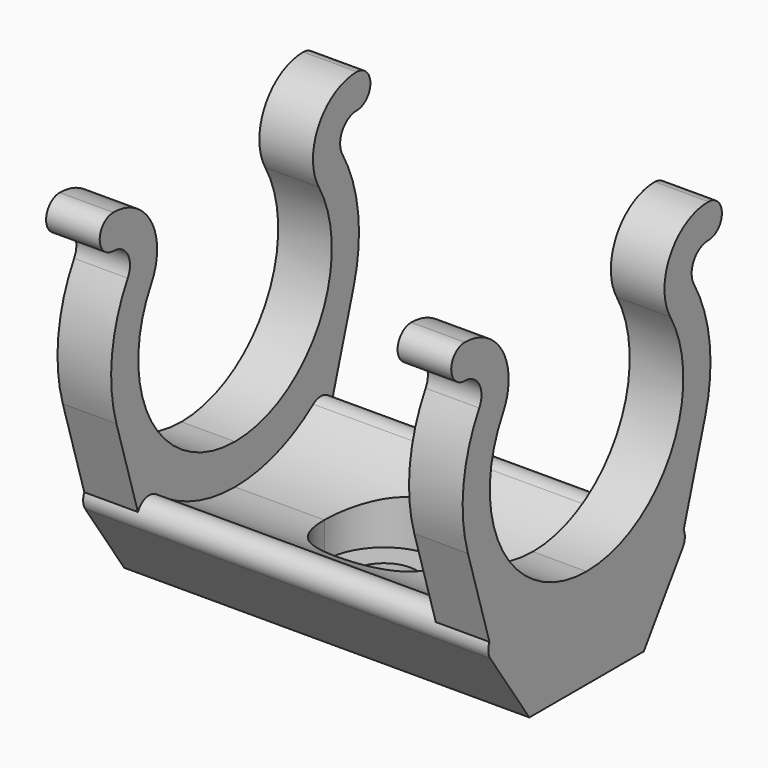
from build123d import *

# Parameters (mm, degrees)
PAD005_DEPTH                  = 17
PAD006_DEPTH                  = 4.5
SKETCH015_R                   = 2.75
POCKET005_DEPTH               = 93.84909
SKETCH016_R                   = 5
POCKET006_DEPTH               = 16.5
PAD005_MIRRORED002_2_DEPTH    = 17
PAD006_MIRRORED002_2_DEPTH    = 4.5
SKETCH015_MIRRORED002_2_R     = 2.75
POCKET005_MIRRORED002_2_DEPTH = 93.84909
SKETCH016_MIRRORED002_2_R     = 5
POCKET006_MIRRORED002_2_DEPTH = 16.5
SKETCH023_W                   = 1
SKETCH023_H                   = 10
POCKET011_DEPTH               = 0.2


with BuildPart() as part:
    # Sketch013 → Pad005 (new body)
    with BuildSketch(Plane.YZ):
        with BuildLine():
            ThreePointArc((0, -13.5), (4.330629, -12.786542), (8.203522, -10.721578))
            ThreePointArc((10.083563, -12.5), (9.900722, -10.810344), (8.203522, -10.721578))
            Line((6, -18.5), (10.083563, -12.5))
            Line((0, -18.5), (6, -18.5))
            Line((0, -13.5), (0, -18.5))
        make_face()
    pad005 = extrude(amount=PAD005_DEPTH)

    # Sketch014 → Pad006 (join)
    with BuildSketch(Plane.YZ.offset(17)):
        with BuildLine():
            ThreePointArc((0, -10.15), (8.790158, -5.075), (8.790158, 5.075))
            ThreePointArc((12.773875, 11.975), (8.790158, 9.675), (8.790158, 5.075))
            ThreePointArc((12.773875, 9.125), (14.198875, 10.55), (12.773875, 11.975))
            ThreePointArc((12.773875, 9.125), (11.25833, 8.25), (11.25833, 6.5))
            ThreePointArc((12.442941, -3.764734), (12.914285, 1.490384), (11.25833, 6.5))
            Line((12.442941, -3.764734), (9.8, -12.5))
            Line((9.8, -12.5), (0, -14.15))
            Line((0, -10.15), (0, -14.15))
        make_face()
    pad006 = extrude(amount=-PAD006_DEPTH)

    # Sketch015 → Pocket005 (cut, through all)
    with BuildSketch(Plane.XY):
        Circle(SKETCH015_R)
    pocket005 = extrude(amount=-POCKET005_DEPTH, mode=Mode.SUBTRACT)

    # Sketch016 → Pocket006 (cut)
    with BuildSketch(Plane.XY):
        Circle(SKETCH016_R)
    pocket006 = extrude(amount=-POCKET006_DEPTH, mode=Mode.SUBTRACT)

    # Sketch013 Mirrored002 2 → Pad005 Mirrored002 2 (add)
    with BuildSketch(Plane(origin=(0, 0, 0), x_dir=(0, -1, 0), z_dir=(-1, 0, 0))):
        with BuildLine():
            ThreePointArc((0, -13.5), (4.330629, -12.786542), (8.203522, -10.721578))
            ThreePointArc((10.083563, -12.5), (9.900722, -10.810344), (8.203522, -10.721578))
            Line((6, -18.5), (10.083563, -12.5))
            Line((0, -18.5), (6, -18.5))
            Line((0, -13.5), (0, -18.5))
        make_face()
    pad005_mirrored002_2 = extrude(amount=-PAD005_MIRRORED002_2_DEPTH)

    # Sketch014 Mirrored002 2 → Pad006 Mirrored002 2 (add)
    with BuildSketch(Plane(origin=(17, 0, 0), x_dir=(0, -1, 0), z_dir=(-1, 0, 0))):
        with BuildLine():
            ThreePointArc((0, -10.15), (8.790158, -5.075), (8.790158, 5.075))
            ThreePointArc((12.773875, 11.975), (8.790158, 9.675), (8.790158, 5.075))
            ThreePointArc((12.773875, 9.125), (14.198875, 10.55), (12.773875, 11.975))
            ThreePointArc((12.773875, 9.125), (11.25833, 8.25), (11.25833, 6.5))
            ThreePointArc((12.442941, -3.764734), (12.914285, 1.490384), (11.25833, 6.5))
            Line((12.442941, -3.764734), (9.8, -12.5))
            Line((9.8, -12.5), (0, -14.15))
            Line((0, -10.15), (0, -14.15))
        make_face()
    pad006_mirrored002_2 = extrude(amount=PAD006_MIRRORED002_2_DEPTH)

    # Sketch015 Mirrored002 2 → Pocket005 Mirrored002 2 (cut, through all)
    with BuildSketch(Plane(origin=(0, 0, 0), x_dir=(1, 0, 0), z_dir=(0, 0, -1))):
        Circle(SKETCH015_MIRRORED002_2_R)
    pocket005_mirrored002_2 = extrude(amount=POCKET005_MIRRORED002_2_DEPTH, mode=Mode.SUBTRACT)

    # Sketch016 Mirrored002 2 → Pocket006 Mirrored002 2 (cut)
    with BuildSketch(Plane(origin=(0, 0, 0), x_dir=(1, 0, 0), z_dir=(0, 0, -1))):
        Circle(SKETCH016_MIRRORED002_2_R)
    pocket006_mirrored002_2 = extrude(amount=POCKET006_MIRRORED002_2_DEPTH, mode=Mode.SUBTRACT)

    # Mirrored003: Pad005, Pad006, Pocket005, Pocket006, Pad005 Mirrored002 2, Pad006 Mirrored002 2, Pocket005 Mirrored002 2, Pocket006 Mirrored002 2 across YZ
    add(pad005.mirror(Plane.YZ))
    add(pad006.mirror(Plane.YZ))
    add(pocket005.mirror(Plane.YZ), mode=Mode.SUBTRACT)
    add(pocket006.mirror(Plane.YZ), mode=Mode.SUBTRACT)
    add(pad005_mirrored002_2.mirror(Plane.YZ))
    add(pad006_mirrored002_2.mirror(Plane.YZ))
    add(pocket005_mirrored002_2.mirror(Plane.YZ), mode=Mode.SUBTRACT)
    add(pocket006_mirrored002_2.mirror(Plane.YZ), mode=Mode.SUBTRACT)

    # Sketch023 → Pocket011 (cut)
    with BuildSketch(Plane.YZ.offset(29)):
        with Locations((0, -15)):
            Rectangle(SKETCH023_W, SKETCH023_H)
    pocket011 = extrude(amount=-POCKET011_DEPTH, mode=Mode.SUBTRACT)

    # Mirrored006: Pocket011 across YZ
    add(pocket011.mirror(Plane.YZ), mode=Mode.SUBTRACT)


solid = part.part
